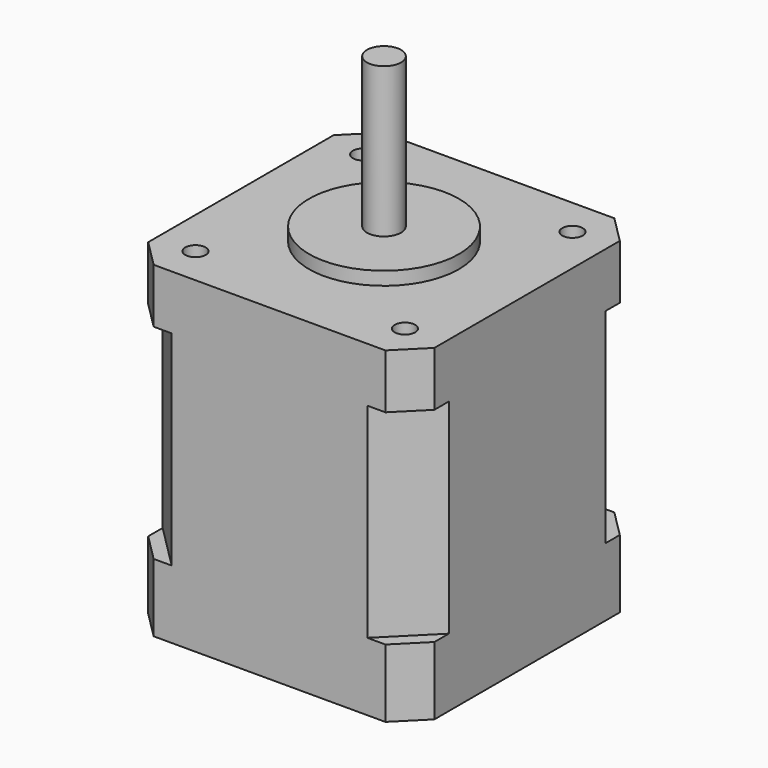
from build123d import *

# Parameters (mm, degrees)
F0_W      = 42
F0_H      = 42
F0_R      = 1.5
F0_R_2    = 11
F0_R_3    = 2.5
F1_DEPTH  = 48
F2_DEPTH  = 1.95
F4_DEPTH  = 23.95
F6_DEPTH  = 48.001
F10_DEPTH = 30
F12_R     = 1.5
F13_DEPTH = 43.5


with BuildPart() as f1:
    # F0 (on Top) → F1 (new body)
    with BuildSketch(Plane.XY):
        Rectangle(F0_W, F0_H)
        with Locations((-15.37, -15.37)):
            Circle(F0_R, mode=Mode.SUBTRACT)
        with Locations((15.37, -15.37)):
            Circle(F0_R, mode=Mode.SUBTRACT)
        with Locations((-15.37, 15.37)):
            Circle(F0_R, mode=Mode.SUBTRACT)
        Circle(F0_R_2, mode=Mode.SUBTRACT)
        with Locations((15.37, 15.37)):
            Circle(F0_R, mode=Mode.SUBTRACT)
        Circle(F0_R_2)
        Circle(F0_R_3, mode=Mode.SUBTRACT)
        Circle(F0_R_3)
    extrude(amount=-F1_DEPTH)

    # F0 (on Top) → F2 (join)
    with BuildSketch(Plane.XY):
        Circle(F0_R_2)
        Circle(F0_R_3, mode=Mode.SUBTRACT)
        Circle(F0_R_3)
    extrude(amount=F2_DEPTH)

    # F0 (on Top) → F4 (join, through all)
    with BuildSketch(Plane.XY):
        Circle(F0_R_3)
    extrude(amount=F4_DEPTH)

    # F5 (on face) → F6 (cut, through all)
    with BuildSketch(Plane.XY):
        Polygon((-21, 17.0069894888), (-17.0069894888, 21), (-21, 21), align=None)
        Polygon((-21, -21), (-17.0069894888, -21), (-21, -17.0069894888), align=None)
        Polygon((17.0069894888, 21), (21, 17.0069894888), (21, 21), align=None)
        Polygon((21, -21), (21, -17.0069894888), (17.0069894888, -21), align=None)
    extrude(amount=-F6_DEPTH, mode=Mode.SUBTRACT)

    # F9 (on offset) → F10 (cut, through all)
    with BuildSketch(Plane.XY.offset(-38)):
        Polygon((21, -14.3553390593), (14.3553390593, -21), (17.0069894888, -21), (21, -17.0069894888), align=None)
        Polygon((-21, 17.0069894888), (-21, 14.3553390593), (-14.3553390593, 21), (-17.0069894888, 21), align=None)
        Polygon((-17.0069894888, -21), (-14.3553390593, -21), (-21, -14.3553390593), (-21, -17.0069894888), align=None)
        Polygon((14.3553390593, 21), (21, 14.3553390593), (21, 17.0069894888), (17.0069894888, 21), align=None)
    extrude(amount=F10_DEPTH, mode=Mode.SUBTRACT)

    # F12 (on offset) → F13 (join, through all)
    with BuildSketch(Plane.XY.offset(-4.5)):
        with Locations((-15.37, 15.37)):
            Circle(F12_R)
        with Locations((15.37, 15.37)):
            Circle(F12_R)
        with Locations((15.37, -15.37)):
            Circle(F12_R)
        with Locations((-15.37, -15.37)):
            Circle(F12_R)
    extrude(amount=-F13_DEPTH)


solid = f1.part
